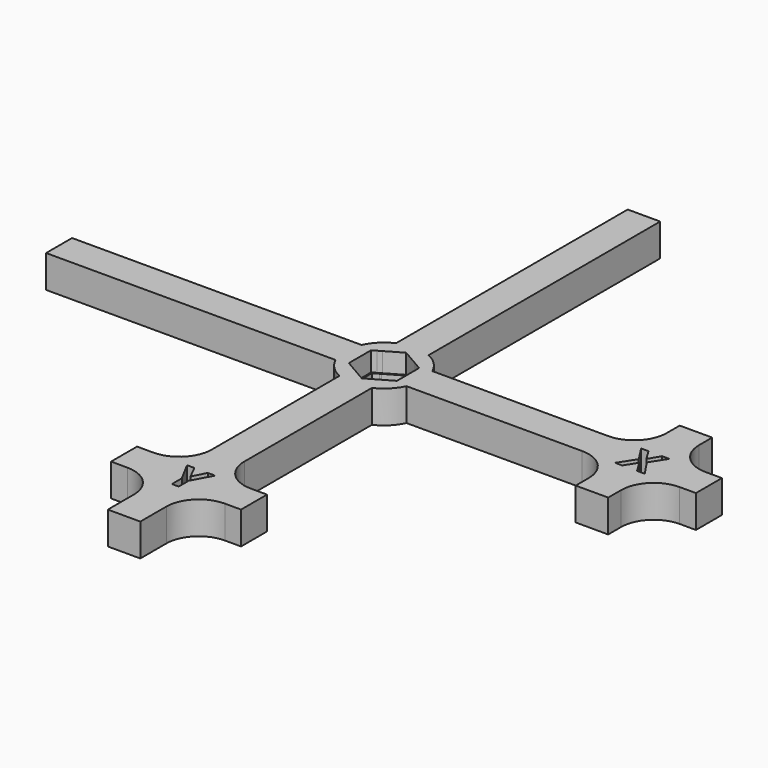
from build123d import *

# Parameters (mm, degrees)
F0_W     = 5
F0_H     = 7.5
F0_W_2   = 7.5
F0_H_2   = 5
F1_DEPTH = 5
F2_DEPTH = 2
F3_R     = 5


with BuildPart() as f1:
    # F0 (on Top) → F1 (new body)
    with BuildSketch(Plane.XY):
        with BuildLine():
            Line((2.5, 5.4543560573), (2.5, 50))
            Line((2.5, 50), (-2.5, 50))
            Line((-2.5, 50), (-2.5, 5.4543560573))
            ThreePointArc((-2.5, 5.4543560573), (0, 6), (2.5, 5.4543560573))
        make_face()
        with BuildLine():
            ThreePointArc((5.4543560573, 2.5), (4.2426406871, 4.2426406871), (2.5, 5.4543560573))
            Line((2.5, 5.4543560573), (2.5, 2.829016319))
            Line((2.5, 2.829016319), (3.0698729811, 2.5))
            Line((3.0698729811, 2.5), (5.4543560573, 2.5))
        make_face()
        with BuildLine():
            Line((2.5, 2.829016319), (2.5, 5.4543560573))
            ThreePointArc((2.5, 5.4543560573), (0, 6), (-2.5, 5.4543560573))
            Line((-2.5, 5.4543560573), (-2.5, 2.829016319))
            Line((-2.5, 2.829016319), (0, 4.272391992))
            Line((0, 4.272391992), (2.5, 2.829016319))
        make_face()
        with BuildLine():
            Line((-2.5, 2.829016319), (-2.5, 5.4543560573))
            ThreePointArc((-2.5, 5.4543560573), (-4.2426406871, 4.2426406871), (-5.4543560573, 2.5))
            Line((-5.4543560573, 2.5), (-3.0698729811, 2.5))
            Line((-3.0698729811, 2.5), (-2.5, 2.829016319))
        make_face()
        with BuildLine():
            ThreePointArc((6, 0), (5.8620020617, 1.2794263668), (5.4543560573, 2.5))
            Line((5.4543560573, 2.5), (3.0698729811, 2.5))
            Line((3.0698729811, 2.5), (3.7, 2.136195996))
            Line((3.7, 2.136195996), (3.7, -2.136195996))
            Line((3.7, -2.136195996), (3.0698729811, -2.5))
            Line((3.0698729811, -2.5), (5.4543560573, -2.5))
            ThreePointArc((5.4543560573, -2.5), (5.8620020617, -1.2794263668), (6, 0))
        make_face()
        with BuildLine():
            Line((37.5, 2.5), (5.4543560573, 2.5))
            ThreePointArc((5.4543560573, 2.5), (5.8620020617, 1.2794263668), (6, 0))
            ThreePointArc((6, 0), (5.8620020617, -1.2794263668), (5.4543560573, -2.5))
            Line((5.4543560573, -2.5), (37.5, -2.5))
            Line((37.5, -2.5), (37.5, -2.4188727583))
            Line((37.5, -2.4188727583), (37.5, 2.5))
        make_face()
        with BuildLine():
            ThreePointArc((-5.4543560573, -2.5), (-6, 0), (-5.4543560573, 2.5))
            Line((-5.4543560573, 2.5), (-50, 2.5))
            Line((-50, 2.5), (-50, -2.5))
            Line((-50, -2.5), (-5.4543560573, -2.5))
        make_face()
        with BuildLine():
            Line((-3.0698729811, 2.5), (-5.4543560573, 2.5))
            ThreePointArc((-5.4543560573, 2.5), (-6, 0), (-5.4543560573, -2.5))
            Line((-5.4543560573, -2.5), (-3.0698729811, -2.5))
            Line((-3.0698729811, -2.5), (-3.7, -2.136195996))
            Line((-3.7, -2.136195996), (-3.7, 2.136195996))
            Line((-3.7, 2.136195996), (-3.0698729811, 2.5))
        make_face()
        with Locations((40, 6.25)):
            Rectangle(F0_W, F0_H)
        Polygon((42.5, 2.5), (37.5, 2.5), (37.5, -2.4188727583), (37.5, -2.5), (42.5, -2.5), align=None)
        Polygon((38.6080273271, -2.4188727583), (37.5, -2.4188727583), (39.1182749787, 0.0960717336), (37.6035439795, 2.4583689155), (38.7446626815, 2.4583689155), (39.7950469684, 0.7034585824), (40.8262169086, 2.4583689155), (41.9395815542, 2.4583689155), (40.4088385995, 0.0394961571), (42.0570025619, -2.4188727583), (40.8763877028, -2.4188727583), (39.7416737831, -0.574295474), align=None, mode=Mode.SUBTRACT)
        with BuildLine():
            Line((-3.0698729811, -2.5), (-5.4543560573, -2.5))
            ThreePointArc((-5.4543560573, -2.5), (-4.2426406871, -4.2426406871), (-2.5, -5.4543560573))
            Line((-2.5, -5.4543560573), (-2.5, -2.829016319))
            Line((-2.5, -2.829016319), (-3.0698729811, -2.5))
        make_face()
        with Locations((46.25, 0)):
            Rectangle(F0_W_2, F0_H_2)
        with BuildLine():
            ThreePointArc((2.5, -5.4543560573), (4.2426406871, -4.2426406871), (5.4543560573, -2.5))
            Line((5.4543560573, -2.5), (3.0698729811, -2.5))
            Line((3.0698729811, -2.5), (2.5, -2.829016319))
            Line((2.5, -2.829016319), (2.5, -5.4543560573))
        make_face()
        with BuildLine():
            ThreePointArc((2.5, -5.4543560573), (0, -6), (-2.5, -5.4543560573))
            Line((-2.5, -5.4543560573), (-2.5, -35))
            Line((-2.5, -35), (2.5, -35))
            Line((2.5, -35), (2.5, -5.4543560573))
        make_face()
        with BuildLine():
            Line((-2.5, -2.829016319), (-2.5, -5.4543560573))
            ThreePointArc((-2.5, -5.4543560573), (0, -6), (2.5, -5.4543560573))
            Line((2.5, -5.4543560573), (2.5, -2.829016319))
            Line((2.5, -2.829016319), (0, -4.272391992))
            Line((0, -4.272391992), (-2.5, -2.829016319))
        make_face()
        with Locations((40, -6.25)):
            Rectangle(F0_W, F0_H)
        Polygon((2.5, -35), (-2.5, -35), (-2.5, -40), (-0.6391059028, -40), (-0.6391059028, -38.1043836806), (-2.2840711806, -35.0423177083), (-1.1447482639, -35.0423177083), (-0.1171875, -37.0833333333), (0.9168836806, -35.0423177083), (2.0496961806, -35.0423177083), (0.4047309028, -38.0707465278), (0.4047309028, -40), (2.5, -40), align=None)
        with Locations((-6.25, -37.5)):
            Rectangle(F0_W_2, F0_H_2)
        with Locations((6.25, -37.5)):
            Rectangle(F0_W_2, F0_H_2)
        Polygon((-0.6391059028, -40), (-2.5, -40), (-2.5, -50), (2.5, -50), (2.5, -40), (0.4047309028, -40), align=None)
    extrude(amount=F1_DEPTH)

    # F0 (on Top) → F2 (join)
    with BuildSketch(Plane.XY):
        Polygon((2.5, 2.5980762114), (2.5, 2.829016319), (0, 4.272391992), (-2.5, 2.829016319), (-2.5, 2.5980762114), (0, 4.0414518843), align=None)
        Polygon((-2.6698729811, 2.5), (-3.0698729811, 2.5), (-3.7, 2.136195996), (-3.7, -2.136195996), (-3.0698729811, -2.5), (-2.6698729811, -2.5), (-3.5, -2.0207259422), (-3.5, 2.0207259422), align=None)
        Polygon((-2.5, 2.5980762114), (-2.5, 2.829016319), (-3.0698729811, 2.5), (-2.6698729811, 2.5), align=None)
        Polygon((-2.6698729811, -2.5), (-3.0698729811, -2.5), (-2.5, -2.829016319), (-2.5, -2.5980762114), align=None)
        Polygon((-2.5, -2.5980762114), (-2.5, -2.829016319), (0, -4.272391992), (2.5, -2.829016319), (2.5, -2.5980762114), (0, -4.0414518843), align=None)
        Polygon((2.5, -2.829016319), (3.0698729811, -2.5), (2.6698729811, -2.5), (2.5, -2.5980762114), align=None)
        Polygon((3.7, 2.136195996), (3.0698729811, 2.5), (2.6698729811, 2.5), (3.5, 2.0207259422), (3.5, -2.0207259422), (2.6698729811, -2.5), (3.0698729811, -2.5), (3.7, -2.136195996), align=None)
        Polygon((3.0698729811, 2.5), (2.5, 2.829016319), (2.5, 2.5980762114), (2.6698729811, 2.5), align=None)
    extrude(amount=F2_DEPTH)

    # F3
    f3_edges = [f1.edges().sort_by_distance(p)[0] for p in [
        (37.5, -2.5, 2.5),
        (-2.5, -40, 2.5),
        (-2.5, -35, 2.5),
        (37.5, 2.5, 2.5),
        (42.5, 2.5, 2.5),
        (2.5, -35, 2.5),
        (2.5, -40, 2.5),
        (42.5, -2.5, 2.5),
    ]]
    fillet(f3_edges, radius=F3_R)


solid = f1.part
